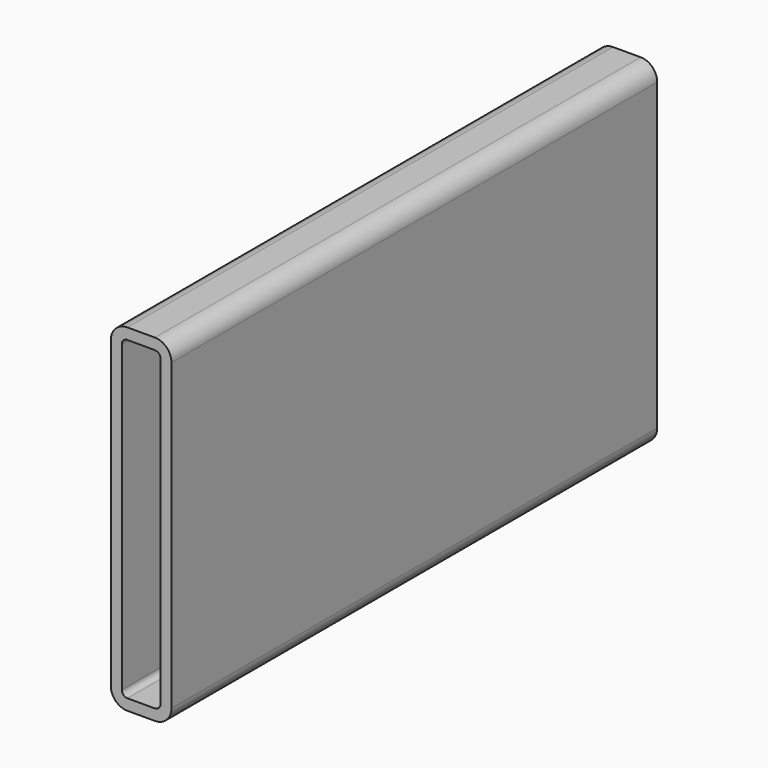
from build123d import *

# Parameters (mm, degrees)
F1_DEPTH = 110


with BuildPart() as f1:
    # F0 (on Front) → F1 (new body)
    with BuildSketch(Plane.XZ):
        with BuildLine():
            Line((1, -2), (6, -2))
            ThreePointArc((6, -2), (8.12132, -1.12132), (9, 1))
            Line((9, 1), (9, 56.15))
            ThreePointArc((9, 56.15), (8.12132, 58.27132), (6, 59.15))
            Line((6, 59.15), (1, 59.15))
            ThreePointArc((1, 59.15), (-1.12132, 58.27132), (-2, 56.15))
            Line((-2, 56.15), (-2, 1))
            ThreePointArc((-2, 1), (-1.12132, -1.12132), (1, -2))
        make_face()
        with BuildLine():
            Line((6, 0), (1, 0))
            ThreePointArc((1, 0), (0.292893, 0.292893), (0, 1))
            Line((0, 1), (0, 56.15))
            ThreePointArc((0, 56.15), (0.292893, 56.857107), (1, 57.15))
            Line((1, 57.15), (6, 57.15))
            ThreePointArc((6, 57.15), (6.707107, 56.857107), (7, 56.15))
            Line((7, 56.15), (7, 1))
            ThreePointArc((7, 1), (6.707107, 0.292893), (6, 0))
        make_face(mode=Mode.SUBTRACT)
    extrude(amount=F1_DEPTH)


solid = f1.part
